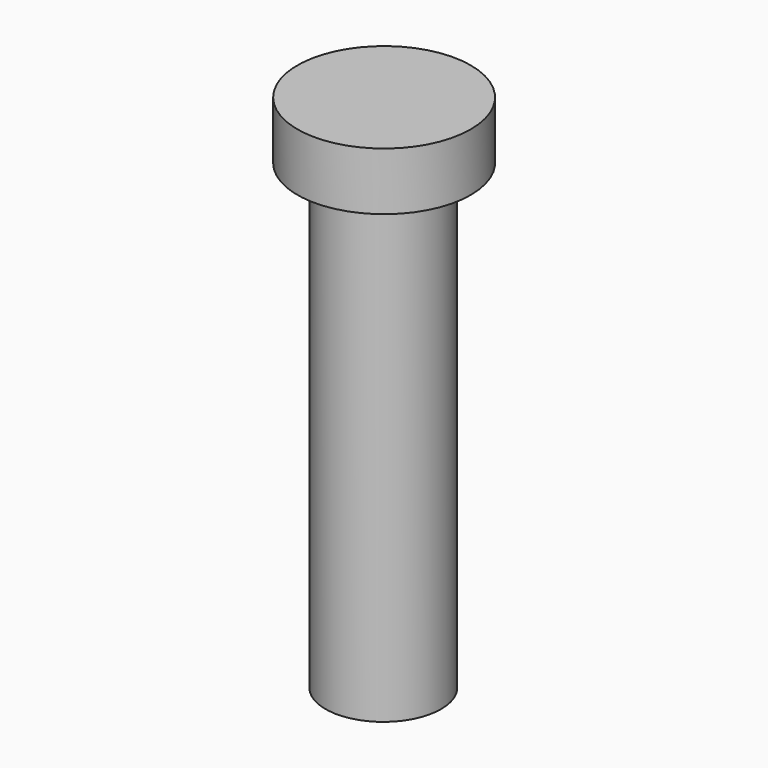
from build123d import *

# Parameters (mm, degrees)
SKETCH_R     = 10
PAD_DEPTH    = 80
SKETCH001_R  = 15
PAD001_DEPTH = 10


with BuildPart() as part:
    # Sketch → Pad (new body)
    with BuildSketch(Plane.XY):
        Circle(SKETCH_R)
    extrude(amount=PAD_DEPTH)

    # Sketch001 (on Face3 of Pad) → Pad001 (join)
    with BuildSketch(Plane.XY.offset(80)):
        with Locations((0.137114, 0)):
            Circle(SKETCH001_R)
    extrude(amount=PAD001_DEPTH)


solid = part.part
